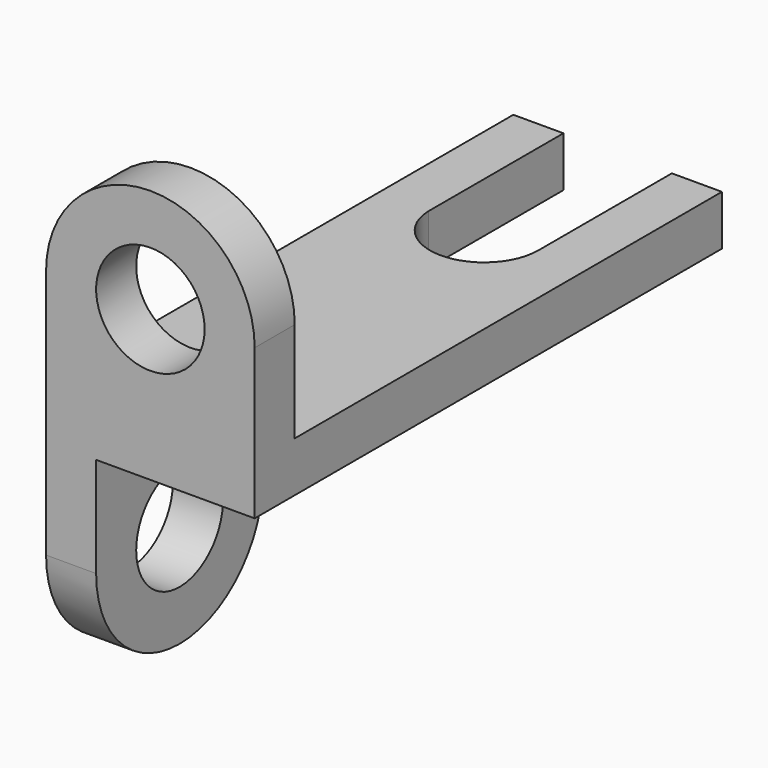
from build123d import *

# Parameters (mm, degrees)
F0_W      = 25
F0_H      = 70
F1_DEPTH  = 6
F2_W      = 25
F2_H      = 6
F3_DEPTH  = 12
F5_DEPTH  = 6
F6_R      = 6.5
F7_DEPTH  = 25
F9_DEPTH  = 25
F10_W     = 6
F10_H     = 25
F11_DEPTH = 12
F13_DEPTH = 6
F14_R     = 6.5
F15_DEPTH = 25


with BuildPart() as f1:
    # F0 (on Top) → F1 (new body)
    with BuildSketch(Plane.XY):
        with Locations((-2.293949775, 3.9573735297)):
            Rectangle(F0_W, F0_H)
    extrude(amount=F1_DEPTH)

    # F2 (on face) → F3 (join)
    with BuildSketch(Plane.XY.offset(6)):
        with Locations((-2.293949775, -28.0426264703)):
            Rectangle(F2_W, F2_H)
    extrude(amount=F3_DEPTH)

    # F4 (on face) → F5 (join)
    with BuildSketch(Plane.XZ.offset(31.0426264703)):
        with BuildLine():
            Line((-14.793949775, 18), (10.206050225, 18))
            ThreePointArc((10.206050225, 18), (-2.293949775, 30.5), (-14.793949775, 18))
        make_face()
    extrude(amount=-F5_DEPTH)

    # F6 (on face) → F7 (cut)
    with BuildSketch(Plane.XZ.offset(31.0426264703)):
        with Locations((-2.293949775, 18)):
            Circle(F6_R)
    extrude(amount=-F7_DEPTH, mode=Mode.SUBTRACT)

    # F8 (on face) → F9 (cut)
    with BuildSketch(Plane.XY.offset(6)):
        with BuildLine():
            ThreePointArc((-8.7897636486, 18.7241309105), (-2.1773096843, 12.4584201455), (4.206050225, 18.9573735297))
            ThreePointArc((4.206050225, 18.9573735297), (4.2058200655, 19.0120728966), (4.2051296032, 19.0667683897))
            ThreePointArc((4.2051296032, 19.0667683897), (-2.2320043737, 25.4570783512), (-8.7897636486, 19.1906161489))
            Line((-8.7897636486, 19.1906161489), (-8.7897636486, 18.7241309105))
        make_face()
        with BuildLine():
            ThreePointArc((-8.7897636486, 19.1906161489), (-2.2320043737, 25.4570783512), (4.2051296032, 19.0667683897))
            Line((4.2051296032, 19.0667683897), (4.2051296032, 38.9573735297))
            Line((4.2051296032, 38.9573735297), (-8.7897636486, 38.9573735297))
            Line((-8.7897636486, 38.9573735297), (-8.7897636486, 19.1906161489))
        make_face()
    extrude(amount=-F9_DEPTH, mode=Mode.SUBTRACT)

    # F10 (on face) → F11 (join)
    with BuildSketch(Plane(origin=(0, 0, 0), x_dir=(1, 0, 0), z_dir=(0, 0, -1))):
        with Locations((-11.793949775, 18.5426264703)):
            Rectangle(F10_W, F10_H)
    extrude(amount=F11_DEPTH)

    # F12 (on face) → F13 (join)
    with BuildSketch(Plane(origin=(-14.793949775, 0, 0), x_dir=(0, -1, 0), z_dir=(-1, 0, 0))):
        with BuildLine():
            ThreePointArc((6.0426264703, -12), (18.5426264703, -24.5), (31.0426264703, -12))
            Line((31.0426264703, -12), (6.0426264703, -12))
        make_face()
    extrude(amount=-F13_DEPTH)

    # F14 (on face) → F15 (cut)
    with BuildSketch(Plane(origin=(-14.793949775, 0, 0), x_dir=(0, -1, 0), z_dir=(-1, 0, 0))):
        with Locations((18.5426264703, -12)):
            Circle(F14_R)
    extrude(amount=-F15_DEPTH, mode=Mode.SUBTRACT)


solid = f1.part
